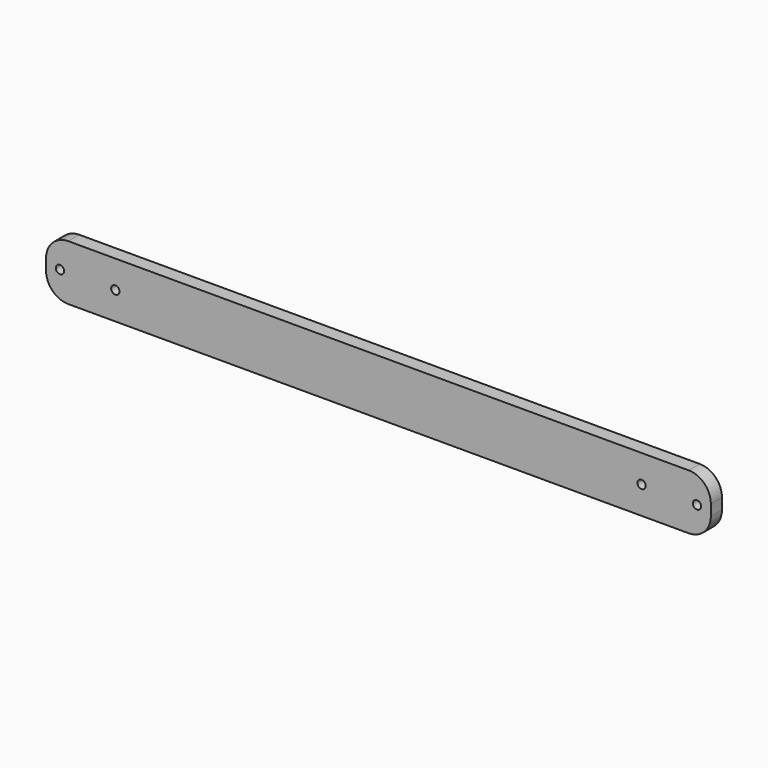
from build123d import *

# Parameters (mm, degrees)
F0_W     = 152.4
F0_H     = 12.7
F0_R     = 0.9525
F1_DEPTH = 3.175
F2_R     = 5.08


with BuildPart() as f1:
    # F0 (on Front) → F1 (new body)
    with BuildSketch(Plane.XZ):
        with Locations((24.978426, 6.35)):
            Rectangle(F0_W, F0_H)
        with Locations((-48.046574, 6.35)):
            Circle(F0_R, mode=Mode.SUBTRACT)
        with Locations((-35.346574, 6.35)):
            Circle(F0_R, mode=Mode.SUBTRACT)
        with Locations((85.303426, 6.35)):
            Circle(F0_R, mode=Mode.SUBTRACT)
        with Locations((98.003426, 6.35)):
            Circle(F0_R, mode=Mode.SUBTRACT)
    extrude(amount=F1_DEPTH)

    # F2
    f2_edges = [f1.edges().sort_by_distance(p)[0] for p in [
        (101.178426, -1.5875, 12.7),
        (101.178426, -1.5875, 0),
        (-51.221574, -1.5875, 12.7),
        (-51.221574, -1.5875, 0),
    ]]
    fillet(f2_edges, radius=F2_R)


solid = f1.part
